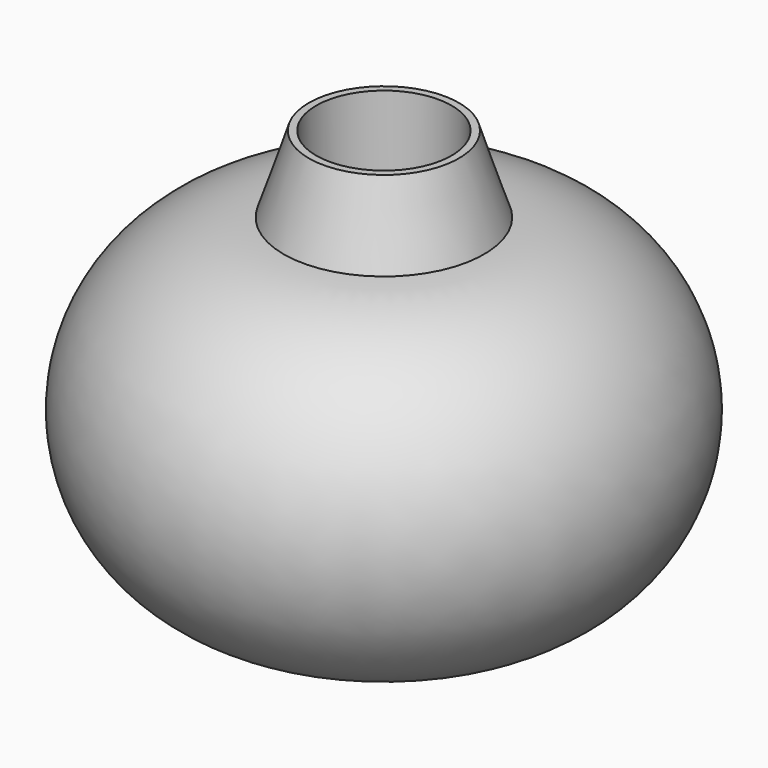
from build123d import *


with BuildPart() as f1:
    # F0 (on Front) → F1 (revolve)
    with BuildSketch(Plane.XZ):
        with BuildLine():
            ThreePointArc((-70, 0), (-75.573115, 67.056037), (-26.711296, 113.317191))
            Line((-26.711296, 113.317191), (-26.711296, 119.133913))
            Line((-26.711296, 119.133913), (-18.5, 119.133913))
            Line((-18.5, 119.133913), (-18.5, 125.133913))
            Line((-18.5, 125.133913), (-26.711296, 125.133913))
            Line((-26.711296, 125.133913), (-26.711296, 154.938141))
            Line((-26.711296, 154.938141), (-29.60469, 154.938141))
            Line((-29.60469, 154.938141), (-39.521277, 124.853122))
            ThreePointArc((-39.521277, 124.853122), (-102.18268, 74.00307), (-70, 0))
        make_face()
    revolve(axis=Axis((0, 0, 81.804797), (0, 0, 1)))


solid = f1.part
